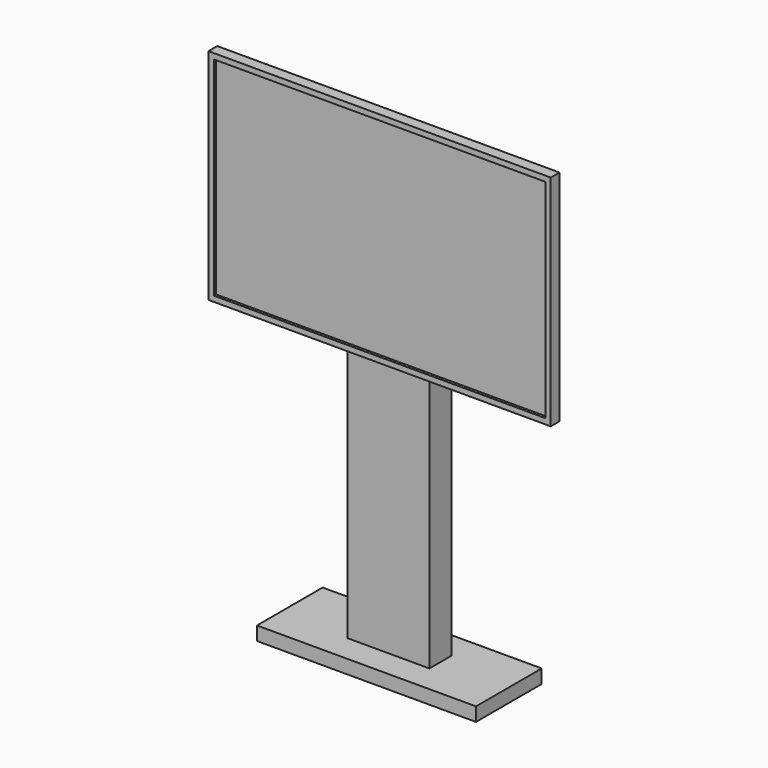
from build123d import *

# Parameters (mm, degrees)
F0_W     = 125
F0_H     = 80
F0_W_2   = 121
F0_H_2   = 76
F1_DEPTH = 4
F2_W     = 121
F2_H     = 76
F3_DEPTH = 1
F4_W     = 30
F4_H     = 101.913806
F4_H_2   = 48.086194
F5_DEPTH = 10
F6_W     = 80
F6_H     = 30
F6_W_2   = 30
F6_H_2   = 10
F7_DEPTH = 5


with BuildPart() as f1:
    # F0 (on Front) → F1 (new body)
    with BuildSketch(Plane.XZ):
        Rectangle(F0_W, F0_H)
        Rectangle(F0_W_2, F0_H_2, mode=Mode.SUBTRACT)
        Rectangle(F0_W_2, F0_H_2)
    extrude(amount=F1_DEPTH)

    # F2 (on face) → F3 (cut)
    with BuildSketch(Plane.XZ.offset(4)):
        Rectangle(F2_W, F2_H)
    extrude(amount=-F3_DEPTH, mode=Mode.SUBTRACT)

    # F4 (on face) → F5 (join)
    with BuildSketch(Plane.XZ):
        with Locations((0, -88.956903)):
            Rectangle(F4_W, F4_H)
        with Locations((0, -13.956903)):
            Rectangle(F4_W, F4_H_2)
    extrude(amount=-F5_DEPTH)

    # F6 (on face) → F7 (join)
    with BuildSketch(Plane(origin=(0, 0, -139.913806), x_dir=(1, 0, 0), z_dir=(0, 0, -1))):
        with Locations((0, -5)):
            Rectangle(F6_W, F6_H)
        with Locations((0, -5)):
            Rectangle(F6_W_2, F6_H_2, mode=Mode.SUBTRACT)
    extrude(amount=-F7_DEPTH)


solid = f1.part
